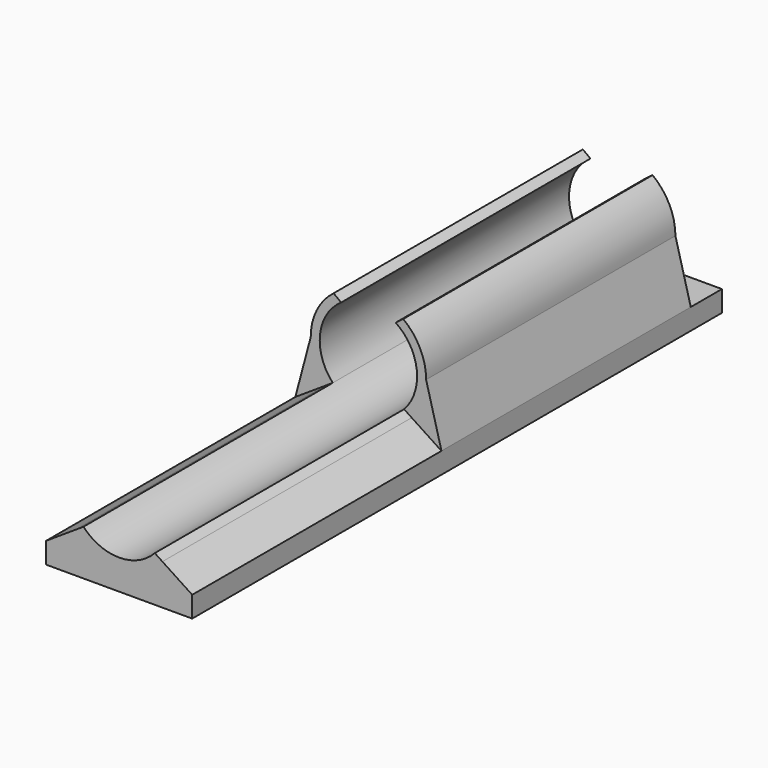
from build123d import *

# Parameters (mm, degrees)
F0_W     = 9.3780029565
F0_H     = 2.6930641449
F1_DEPTH = 80
F2_DEPTH = 40
F3_W     = 18.756005913
F3_H     = 2.6930641449
F4_DEPTH = 5


with BuildPart() as f1:
    # F0 (on Front) → F1 (new body)
    with BuildSketch(Plane.XZ):
        with BuildLine():
            ThreePointArc((4.5775509482, -4.2554115332), (0, -6.25), (-4.5775509482, -4.2554115332))
            Line((-4.5775509482, -4.2554115332), (-5.5563090648, -4.8979718597))
            ThreePointArc((-5.5563090648, -4.8979718597), (-3.0482564998, -6.7506170883), (0, -7.4069358551))
            ThreePointArc((0, -7.4069358551), (3.0482564998, -6.7506170883), (5.5563090648, -4.8979718597))
            Line((5.5563090648, -4.8979718597), (4.5775509482, -4.2554115332))
        make_face()
        with BuildLine():
            Line((9.3780029565, -7.4069358551), (5.5563090648, -4.8979718597))
            ThreePointArc((5.5563090648, -4.8979718597), (3.0482564998, -6.7506170883), (0, -7.4069358551))
            Line((0, -7.4069358551), (9.3780029565, -7.4069358551))
        make_face()
        with BuildLine():
            ThreePointArc((0, -7.4069358551), (-3.0482564998, -6.7506170883), (-5.5563090648, -4.8979718597))
            Line((-5.5563090648, -4.8979718597), (-9.3780029565, -7.4069358551))
            Line((-9.3780029565, -7.4069358551), (0, -7.4069358551))
        make_face()
        with Locations((-4.6890014783, -8.7534679275)):
            Rectangle(F0_W, F0_H)
        with Locations((4.6890014783, -8.7534679275)):
            Rectangle(F0_W, F0_H)
    extrude(amount=F1_DEPTH)

    # F0 (on Front) → F2 (join)
    with BuildSketch(Plane.XZ):
        with BuildLine():
            Line((-9.3780029565, -7.4069358551), (-5.5563090648, -4.8979718597))
            ThreePointArc((-5.5563090648, -4.8979718597), (-6.9288499621, -2.6179642785), (-7.4069358551, 0))
            Line((-7.4069358551, 0), (-9.3780029565, -7.4069358551))
        make_face()
        with BuildLine():
            ThreePointArc((-4.5775509482, -4.2554115332), (-6.2096209441, 0.7093008742), (-3.5, 5.1780787943))
            Line((-3.5, 5.1780787943), (-4.4709416805, 5.9053686803))
            ThreePointArc((-4.4709416805, 5.9053686803), (-6.6324458912, 3.2974778636), (-7.4069358551, 0))
            ThreePointArc((-7.4069358551, 0), (-6.9288499621, -2.6179642785), (-5.5563090648, -4.8979718597))
            Line((-5.5563090648, -4.8979718597), (-4.5775509482, -4.2554115332))
        make_face()
        with BuildLine():
            ThreePointArc((3.5, 5.1780787943), (6.2096209441, 0.7093008742), (4.5775509482, -4.2554115332))
            Line((4.5775509482, -4.2554115332), (5.5563090648, -4.8979718597))
            ThreePointArc((5.5563090648, -4.8979718597), (6.9288499621, -2.6179642785), (7.4069358551, 0))
            ThreePointArc((7.4069358551, 0), (6.6324458912, 3.2974778636), (4.4709416805, 5.9053686803))
            Line((4.4709416805, 5.9053686803), (3.5, 5.1780787943))
        make_face()
        with BuildLine():
            ThreePointArc((7.4069358551, 0), (6.9288499621, -2.6179642785), (5.5563090648, -4.8979718597))
            Line((5.5563090648, -4.8979718597), (9.3780029565, -7.4069358551))
            Line((9.3780029565, -7.4069358551), (7.4069358551, 0))
        make_face()
    extrude(amount=F2_DEPTH)

    # F3 (on face) → F4 (join)
    with BuildSketch(Plane(origin=(0, 0, 0), x_dir=(-1, 0, 0), z_dir=(0, 1, 0))):
        with Locations((0, -8.7534679275)):
            Rectangle(F3_W, F3_H)
    extrude(amount=F4_DEPTH)


solid = f1.part
